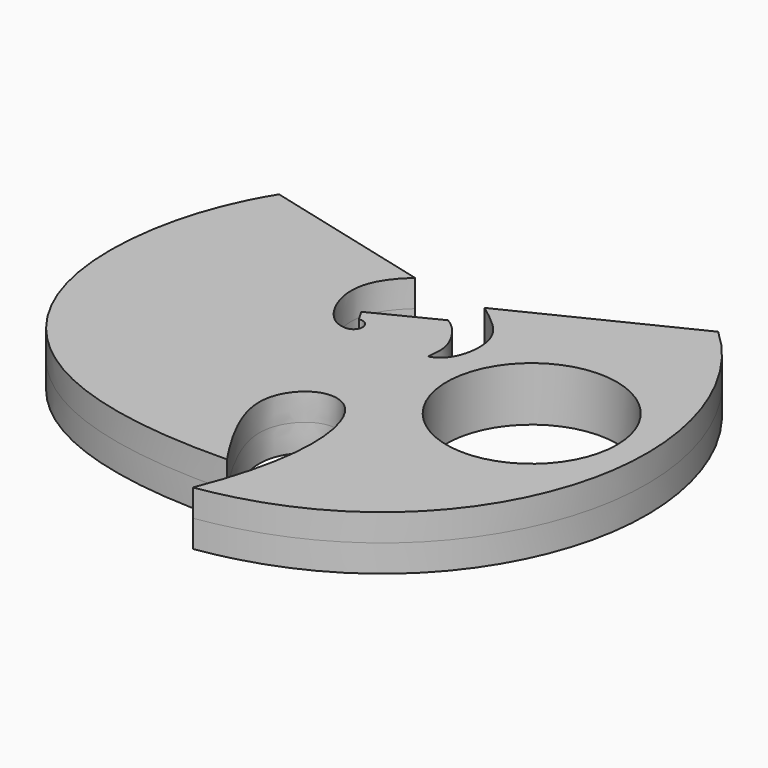
from build123d import *

# Parameters (mm, degrees)
F0_R     = 11
F1_DEPTH = 3.5


with BuildPart() as f1:
    # F0 (on Top) → F1 (new body, symmetric)
    with BuildSketch(Plane.XY):
        with BuildLine():
            ThreePointArc((-5.9371989536, 9.136938762), (-4.5556948826, 8.1032503328), (-5.7171564072, 6.8272909316))
            add(Edge.make_bspline(
                [(-7.1601356012, 19.7303443127), (-9.8396121009, 17.328055376), (-11.7631082296, 12.7037080844), (-7.991697676, 6.7025448219), (-5.7171564072, 6.8272909316)],
                knots=[0, 0, 0, 0, 0.5193023993, 1, 1, 1, 1], degree=3))
            Line((-7.1601356012, 19.7303443127), (-29.2586693251, 25.4083474436))
            add(Edge.make_bspline(
                [(2.7892878075, -23.0723533458), (-9.100445471, -23.3260705726), (-26.0312299774, -19.4058078659), (-37.3351362806, -0.3188714111), (-34.0472960433, 17.7900344429), (-29.2586693251, 25.4083474436)],
                knots=[0, 0, 0, 0, 0.3603746174, 0.6556097302, 1, 1, 1, 1], degree=3))
            add(Edge.make_bspline(
                [(3.9497939315, -30), (6.3200092463, -24.0845974018), (8.4418802977, -14.4410055096), (5.618321076, -5.9348622155), (0.4188786459, -5.0226176358), (-4.661613499, -11.3368669415), (0.3789602011, -19.4366700265), (2.7892878075, -23.0723533458)],
                knots=[0, 0, 0, 0, 0.2738856545, 0.4583152945, 0.591269181, 0.7564644707, 1, 1, 1, 1], degree=3))
            add(Edge.make_bspline(
                [(24.0596541754, 29.6391923389), (31.7168351337, 22.656535609), (41.5570833778, -1.6182185805), (23.0239544155, -27.1377676606), (3.9497939315, -30)],
                knots=[0, 0, 0, 0, 0.4612146425, 1, 1, 1, 1], degree=3))
            Line((24.0596541754, 29.6391923389), (2.4210962566, 18.9946021933))
            add(Edge.make_bspline(
                [(4.6126311388, 7.1527171592), (6.9798036393, 7.6946970927), (8.5434124721, 14.7188307272), (4.6365245457, 17.2686031477), (2.4210962566, 18.9946021933)],
                knots=[0, 0, 0, 0, 0.4936475393, 1, 1, 1, 1], degree=3))
            add(Edge.make_bspline(
                [(1.2064232823, 14.5694600899), (2.7917893894, 13.7439214682), (5.0913604942, 10.1353380455), (4.6597097129, 8.3324459978), (4.6126311388, 7.1527171592)],
                knots=[0, 0, 0, 0, 0.5729073376, 1, 1, 1, 1], degree=3))
            Line((1.2064232823, 14.5694600899), (-6.7597080421, 10.5589251693))
            Line((-6.7597080421, 10.5589251693), (-5.9371989536, 9.136938762))
        make_face()
        with Locations((20.5298382789, 3.9593884721)):
            Circle(F0_R, mode=Mode.SUBTRACT)
    extrude(amount=F1_DEPTH, both=True)


solid = f1.part
